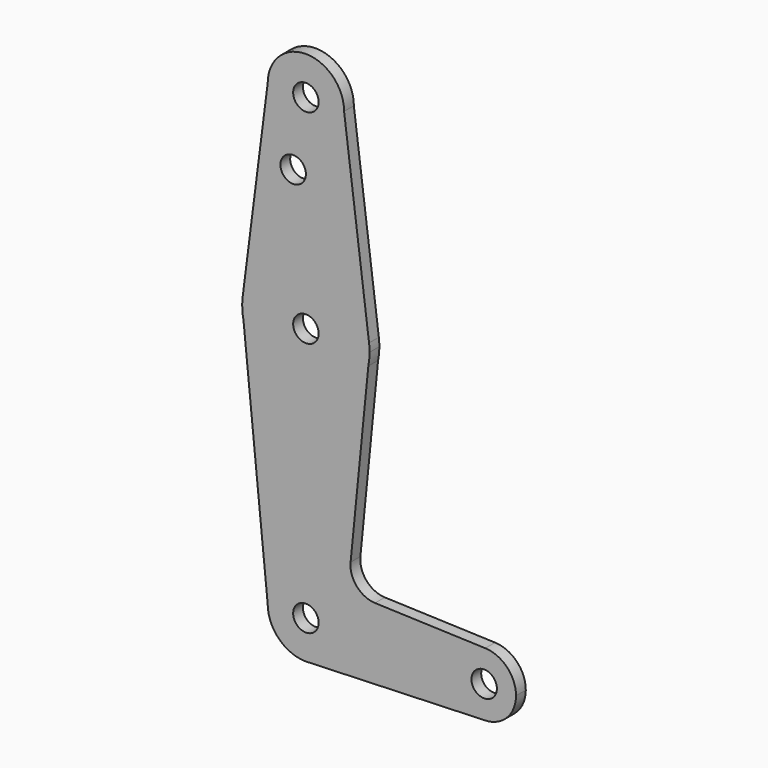
from build123d import *

# Parameters (mm, degrees)
F0_R     = 3.175
F1_DEPTH = 3.048


with BuildPart() as f1:
    # F0 (on Front) → F1 (new body)
    with BuildSketch(Plane.XZ):
        with BuildLine():
            ThreePointArc((-9.525, 101.872142), (0, 92.347142), (9.525, 101.872142))
            ThreePointArc((9.525, 101.872142), (0, 111.397142), (-9.525, 101.872142))
        make_face()
        with Locations((0, 101.872142)):
            Circle(F0_R, mode=Mode.SUBTRACT)
        with BuildLine():
            Line((15.747457, 53.080432), (9.525, 101.872142))
            ThreePointArc((9.525, 101.872142), (0, 92.347142), (-9.525, 101.872142))
            Line((-9.525, 101.872142), (-15.747457, 53.080432))
            ThreePointArc((-15.747457, 53.080432), (0, 66.947142), (15.747457, 53.080432))
        make_face()
        with Locations((-3.175, 85.001841)):
            Circle(F0_R, mode=Mode.SUBTRACT)
        with BuildLine():
            ThreePointArc((15.875, 51.072142), (15.843082, 52.07831), (15.747457, 53.080432))
            ThreePointArc((15.747457, 53.080432), (0, 66.947142), (-15.747457, 53.080432))
            ThreePointArc((-15.747457, 53.080432), (-15.843082, 52.07831), (-15.875, 51.072142))
            Line((-15.875, 51.072142), (-15.560644, 47.928578))
            ThreePointArc((-15.560644, 47.928578), (0.011588, 35.197147), (15.565216, 47.951298))
            Line((15.565216, 47.951298), (15.875, 51.072142))
        make_face()
        with Locations((0, 51.072142)):
            Circle(F0_R, mode=Mode.SUBTRACT)
        with BuildLine():
            ThreePointArc((15.565216, 47.951298), (15.797364, 49.504051), (15.875, 51.072142))
            Line((15.875, 51.072142), (15.565216, 47.951298))
        make_face()
        with BuildLine():
            Line((-15.560644, 47.928578), (-15.875, 51.072142))
            ThreePointArc((-15.875, 51.072142), (-15.796215, 49.492521), (-15.560644, 47.928578))
        make_face()
        with BuildLine():
            Line((11.148541, 3.456539), (15.565216, 47.951298))
            ThreePointArc((15.565216, 47.951298), (0.011588, 35.197147), (-15.560644, 47.928578))
            Line((-15.560644, 47.928578), (-9.525, -12.427858))
            ThreePointArc((-9.525, -12.427858), (0, -2.902858), (9.525, -12.427858))
            ThreePointArc((9.525, -12.427858), (6.97129, -18.918369), (0.67949, -21.92859))
            Line((0.67949, -21.92859), (44.45, -20.365358))
            ThreePointArc((44.45, -20.365358), (36.513756, -12.286633), (44.732405, -4.495383))
            Line((44.732405, -4.495383), (17.241562, -3.516677))
            ThreePointArc((17.241562, -3.516677), (12.685722, -1.348883), (11.148541, 3.456539))
        make_face()
        with BuildLine():
            ThreePointArc((9.525, -12.427858), (0, -2.902858), (-9.525, -12.427858))
            ThreePointArc((-9.525, -12.427858), (-6.735192, -19.16305), (0, -21.952858))
            Line((0, -21.952858), (0.67949, -21.92859))
            ThreePointArc((0.67949, -21.92859), (6.97129, -18.918369), (9.525, -12.427858))
        make_face()
        with Locations((0, -12.427858)):
            Circle(F0_R, mode=Mode.SUBTRACT)
        with BuildLine():
            Line((0.67949, -21.92859), (0, -21.952858))
            ThreePointArc((0, -21.952858), (0.339962, -21.946789), (0.67949, -21.92859))
        make_face()
        with BuildLine():
            ThreePointArc((52.3875, -12.427858), (50.161633, -6.915947), (44.732405, -4.495383))
            ThreePointArc((44.732405, -4.495383), (36.513756, -12.286633), (44.45, -20.365358))
            ThreePointArc((44.45, -20.365358), (50.06266, -18.040518), (52.3875, -12.427858))
        make_face()
        with Locations((44.45, -12.427858)):
            Circle(F0_R, mode=Mode.SUBTRACT)
    extrude(amount=F1_DEPTH)


solid = f1.part
